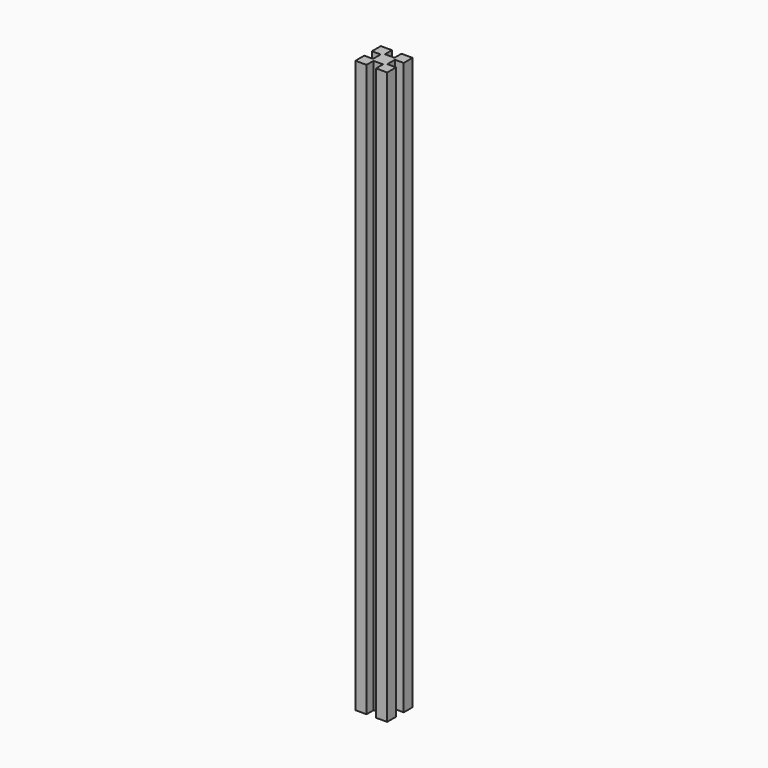
from build123d import *

# Parameters (mm, degrees)
F1_DEPTH = 360
F2_R     = 3
F3_DEPTH = 25


with BuildPart() as f1:
    # F0 (on Top) → F1 (new body)
    with BuildSketch(Plane.XY):
        Polygon((0, 7), (0, 0), (7, 0), (7, 5.5), (13, 5.5), (13, 0), (20, 0), (20, 7), (14.5, 7), (14.5, 13), (20, 13), (20, 20), (13, 20), (13, 14.5), (7, 14.5), (7, 20), (0, 20), (0, 13), (5.5, 13), (5.5, 7), align=None)
    extrude(amount=F1_DEPTH)

    # F2 (on face) → F3 (cut)
    with BuildSketch(Plane.YZ.offset(14.5)):
        with Locations((9.993159, 180)):
            Circle(F2_R)
    extrude(amount=-F3_DEPTH, mode=Mode.SUBTRACT)


solid = f1.part
